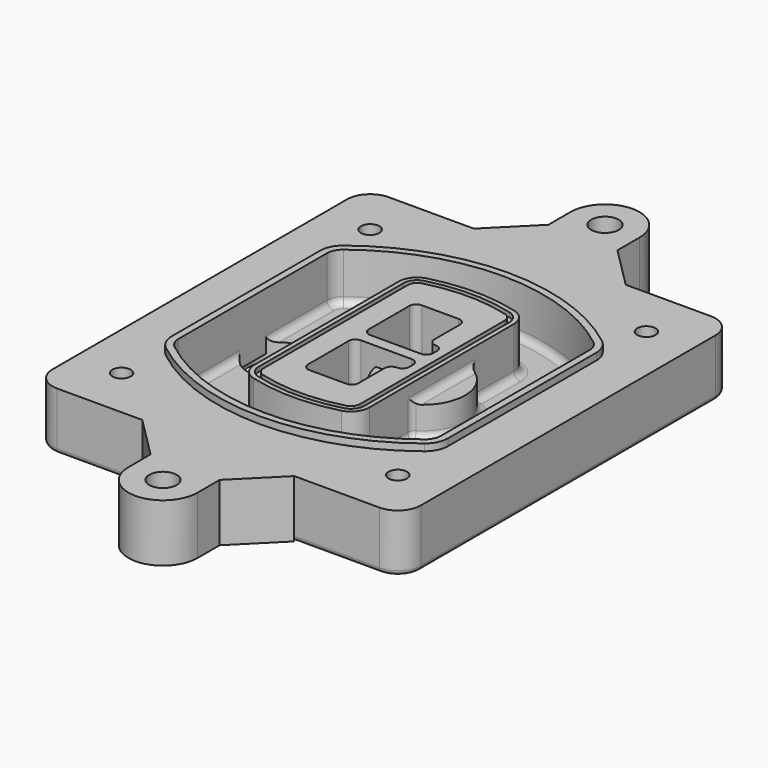
from build123d import *

# Parameters (mm, degrees)
F0_R      = 4
F1_DEPTH  = 25
F2_DEPTH  = 3
F3_DEPTH  = 18
F5_DEPTH  = 21
F6_DEPTH  = 2
F8_DEPTH  = 20
F9_DEPTH  = 16
F10_DEPTH = 25
F7_R      = 6
F7_R_2    = 4
F11_DEPTH = 6
F13_DEPTH = 9
F14_R     = 3
F15_R     = 2
F16_R     = 6
F17_DEPTH = 25


with BuildPart() as f1:
    # F0 (on Top) → F1 (new body)
    with BuildSketch(Plane.XY):
        with BuildLine():
            ThreePointArc((-80, -80), (-77.0710678119, -87.0710678119), (-70, -90))
            Line((-70, -90), (70, -90))
            ThreePointArc((70, -90), (77.0710678119, -87.0710678119), (80, -80))
            Line((80, -80), (80, 80))
            ThreePointArc((80, 80), (77.0710678119, 87.0710678119), (70, 90))
            Line((70, 90), (-70, 90))
            ThreePointArc((-70, 90), (-77.0710678119, 87.0710678119), (-80, 80))
            Line((-80, 80), (-80, -80))
        make_face()
        with Locations((-60, -67.5)):
            Circle(F0_R, mode=Mode.SUBTRACT)
        with Locations((60, -67.5)):
            Circle(F0_R, mode=Mode.SUBTRACT)
        with Locations((-60, 67.5)):
            Circle(F0_R, mode=Mode.SUBTRACT)
        with BuildLine():
            ThreePointArc((-64, 40.2934422872), (-62.5820384798, 46.4328484224), (-58.6153846154, 51.3286200352))
            ThreePointArc((-58.6153846154, 51.3286200352), (0, 71.5), (58.6153846154, 51.3286200352))
            ThreePointArc((58.6153846154, 51.3286200352), (62.5820384798, 46.4328484224), (64, 40.2934422872))
            Line((64, 40.2934422872), (64, -40.2934422872))
            ThreePointArc((64, -40.2934422872), (62.5820384798, -46.4328484224), (58.6153846154, -51.3286200352))
            ThreePointArc((58.6153846154, -51.3286200352), (0, -71.5), (-58.6153846154, -51.3286200352))
            ThreePointArc((-58.6153846154, -51.3286200352), (-62.5820384798, -46.4328484224), (-64, -40.2934422872))
            Line((-64, -40.2934422872), (-64, 40.2934422872))
        make_face(mode=Mode.SUBTRACT)
        with Locations((60, 67.5)):
            Circle(F0_R, mode=Mode.SUBTRACT)
        with BuildLine():
            ThreePointArc((58.6153846154, 51.3286200352), (0, 71.5), (-58.6153846154, 51.3286200352))
            ThreePointArc((-58.6153846154, 51.3286200352), (-62.5820384798, 46.4328484224), (-64, 40.2934422872))
            Line((-64, 40.2934422872), (-64, -40.2934422872))
            ThreePointArc((-64, -40.2934422872), (-62.5820384798, -46.4328484224), (-58.6153846154, -51.3286200352))
            ThreePointArc((-58.6153846154, -51.3286200352), (0, -71.5), (58.6153846154, -51.3286200352))
            ThreePointArc((58.6153846154, -51.3286200352), (62.5820384798, -46.4328484224), (64, -40.2934422872))
            Line((64, -40.2934422872), (64, 40.2934422872))
            ThreePointArc((64, 40.2934422872), (62.5820384798, 46.4328484224), (58.6153846154, 51.3286200352))
        make_face()
        with BuildLine():
            Line((-60, -40.2934422872), (-60, 40.2934422872))
            ThreePointArc((-60, 40.2934422872), (-58.9871703427, 44.6787323838), (-56.1538461538, 48.1757121072))
            ThreePointArc((-56.1538461538, 48.1757121072), (0, 67.5), (56.1538461538, 48.1757121072))
            ThreePointArc((56.1538461538, 48.1757121072), (58.9871703427, 44.6787323838), (60, 40.2934422872))
            Line((60, 40.2934422872), (60, -40.2934422872))
            ThreePointArc((60, -40.2934422872), (58.9871703427, -44.6787323838), (56.1538461538, -48.1757121072))
            ThreePointArc((56.1538461538, -48.1757121072), (0, -67.5), (-56.1538461538, -48.1757121072))
            ThreePointArc((-56.1538461538, -48.1757121072), (-58.9871703427, -44.6787323838), (-60, -40.2934422872))
        make_face(mode=Mode.SUBTRACT)
        with BuildLine():
            ThreePointArc((-56.1538461538, 48.1757121072), (-58.9871703427, 44.6787323838), (-60, 40.2934422872))
            Line((-60, 40.2934422872), (-60, -40.2934422872))
            ThreePointArc((-60, -40.2934422872), (-58.9871703427, -44.6787323838), (-56.1538461538, -48.1757121072))
            ThreePointArc((-56.1538461538, -48.1757121072), (0, -67.5), (56.1538461538, -48.1757121072))
            ThreePointArc((56.1538461538, -48.1757121072), (58.9871703427, -44.6787323838), (60, -40.2934422872))
            Line((60, -40.2934422872), (60, 40.2934422872))
            ThreePointArc((60, 40.2934422872), (58.9871703427, 44.6787323838), (56.1538461538, 48.1757121072))
            ThreePointArc((56.1538461538, 48.1757121072), (0, 67.5), (-56.1538461538, 48.1757121072))
        make_face()
        with BuildLine():
            ThreePointArc((54.3076923077, 45.8110311612), (56.2910192399, 43.3631453548), (57, 40.2934422872))
            Line((57, 40.2934422872), (57, -40.2934422872))
            ThreePointArc((57, -40.2934422872), (56.2910192399, -43.3631453548), (54.3076923077, -45.8110311612))
            ThreePointArc((54.3076923077, -45.8110311612), (0, -64.5), (-54.3076923077, -45.8110311612))
            ThreePointArc((-54.3076923077, -45.8110311612), (-56.2910192399, -43.3631453548), (-57, -40.2934422872))
            Line((-57, -40.2934422872), (-57, 40.2934422872))
            ThreePointArc((-57, 40.2934422872), (-56.2910192399, 43.3631453548), (-54.3076923077, 45.8110311612))
            ThreePointArc((-54.3076923077, 45.8110311612), (0, 64.5), (54.3076923077, 45.8110311612))
        make_face(mode=Mode.SUBTRACT)
        with BuildLine():
            Line((57, -40.2934422872), (57, 40.2934422872))
            ThreePointArc((57, 40.2934422872), (56.2910192399, 43.3631453548), (54.3076923077, 45.8110311612))
            ThreePointArc((54.3076923077, 45.8110311612), (0, 64.5), (-54.3076923077, 45.8110311612))
            ThreePointArc((-54.3076923077, 45.8110311612), (-56.2910192399, 43.3631453548), (-57, 40.2934422872))
            Line((-57, 40.2934422872), (-57, -40.2934422872))
            ThreePointArc((-57, -40.2934422872), (-56.2910192399, -43.3631453548), (-54.3076923077, -45.8110311612))
            ThreePointArc((-54.3076923077, -45.8110311612), (0, -64.5), (54.3076923077, -45.8110311612))
            ThreePointArc((54.3076923077, -45.8110311612), (56.2910192399, -43.3631453548), (57, -40.2934422872))
        make_face()
    extrude(amount=-F1_DEPTH)

    # F0 (on Top) → F2 (join)
    with BuildSketch(Plane.XY):
        with BuildLine():
            ThreePointArc((-56.1538461538, 48.1757121072), (-58.9871703427, 44.6787323838), (-60, 40.2934422872))
            Line((-60, 40.2934422872), (-60, -40.2934422872))
            ThreePointArc((-60, -40.2934422872), (-58.9871703427, -44.6787323838), (-56.1538461538, -48.1757121072))
            ThreePointArc((-56.1538461538, -48.1757121072), (0, -67.5), (56.1538461538, -48.1757121072))
            ThreePointArc((56.1538461538, -48.1757121072), (58.9871703427, -44.6787323838), (60, -40.2934422872))
            Line((60, -40.2934422872), (60, 40.2934422872))
            ThreePointArc((60, 40.2934422872), (58.9871703427, 44.6787323838), (56.1538461538, 48.1757121072))
            ThreePointArc((56.1538461538, 48.1757121072), (0, 67.5), (-56.1538461538, 48.1757121072))
        make_face()
        with BuildLine():
            ThreePointArc((54.3076923077, 45.8110311612), (56.2910192399, 43.3631453548), (57, 40.2934422872))
            Line((57, 40.2934422872), (57, -40.2934422872))
            ThreePointArc((57, -40.2934422872), (56.2910192399, -43.3631453548), (54.3076923077, -45.8110311612))
            ThreePointArc((54.3076923077, -45.8110311612), (0, -64.5), (-54.3076923077, -45.8110311612))
            ThreePointArc((-54.3076923077, -45.8110311612), (-56.2910192399, -43.3631453548), (-57, -40.2934422872))
            Line((-57, -40.2934422872), (-57, 40.2934422872))
            ThreePointArc((-57, 40.2934422872), (-56.2910192399, 43.3631453548), (-54.3076923077, 45.8110311612))
            ThreePointArc((-54.3076923077, 45.8110311612), (0, 64.5), (54.3076923077, 45.8110311612))
        make_face(mode=Mode.SUBTRACT)
    extrude(amount=F2_DEPTH)

    # F0 (on Top) → F3 (cut)
    with BuildSketch(Plane.XY):
        with BuildLine():
            Line((57, -40.2934422872), (57, 40.2934422872))
            ThreePointArc((57, 40.2934422872), (56.2910192399, 43.3631453548), (54.3076923077, 45.8110311612))
            ThreePointArc((54.3076923077, 45.8110311612), (0, 64.5), (-54.3076923077, 45.8110311612))
            ThreePointArc((-54.3076923077, 45.8110311612), (-56.2910192399, 43.3631453548), (-57, 40.2934422872))
            Line((-57, 40.2934422872), (-57, -40.2934422872))
            ThreePointArc((-57, -40.2934422872), (-56.2910192399, -43.3631453548), (-54.3076923077, -45.8110311612))
            ThreePointArc((-54.3076923077, -45.8110311612), (0, -64.5), (54.3076923077, -45.8110311612))
            ThreePointArc((54.3076923077, -45.8110311612), (56.2910192399, -43.3631453548), (57, -40.2934422872))
        make_face()
    extrude(amount=-F3_DEPTH, mode=Mode.SUBTRACT)

    # F4 (on face) → F5 (join, through all)
    with BuildSketch(Plane.XY.offset(3)):
        with BuildLine():
            ThreePointArc((-25, -39.2465276821), (-23.3511545998, -44.1109737193), (-19.0842911877, -46.9702398883))
            ThreePointArc((-19.0842911877, -46.9702398883), (0, -49.5), (19.0842911877, -46.9702398883))
            ThreePointArc((19.0842911877, -46.9702398883), (23.3511545998, -44.1109737193), (25, -39.2465276821))
            Line((25, -39.2465276821), (25, 39.2465276821))
            ThreePointArc((25, 39.2465276821), (23.3511545998, 44.1109737193), (19.0842911877, 46.9702398883))
            ThreePointArc((19.0842911877, 46.9702398883), (0, 49.5), (-19.0842911877, 46.9702398883))
            ThreePointArc((-19.0842911877, 46.9702398883), (-23.3511545998, 44.1109737193), (-25, 39.2465276821))
            Line((-25, 39.2465276821), (-25, -39.2465276821))
        make_face()
        with BuildLine():
            ThreePointArc((18.5632183908, 45.0393118368), (21.7633659499, 42.89486221), (23, 39.2465276821))
            Line((23, 39.2465276821), (23, -39.2465276821))
            ThreePointArc((23, -39.2465276821), (21.7633659499, -42.89486221), (18.5632183908, -45.0393118368))
            ThreePointArc((18.5632183908, -45.0393118368), (0, -47.5), (-18.5632183908, -45.0393118368))
            ThreePointArc((-18.5632183908, -45.0393118368), (-21.7633659499, -42.89486221), (-23, -39.2465276821))
            Line((-23, -39.2465276821), (-23, 39.2465276821))
            ThreePointArc((-23, 39.2465276821), (-21.7633659499, 42.89486221), (-18.5632183908, 45.0393118368))
            ThreePointArc((-18.5632183908, 45.0393118368), (0, 47.5), (18.5632183908, 45.0393118368))
        make_face(mode=Mode.SUBTRACT)
        with BuildLine():
            Line((23, -39.2465276821), (23, 39.2465276821))
            ThreePointArc((23, 39.2465276821), (21.7633659499, 42.89486221), (18.5632183908, 45.0393118368))
            ThreePointArc((18.5632183908, 45.0393118368), (0, 47.5), (-18.5632183908, 45.0393118368))
            ThreePointArc((-18.5632183908, 45.0393118368), (-21.7633659499, 42.89486221), (-23, 39.2465276821))
            Line((-23, 39.2465276821), (-23, -39.2465276821))
            ThreePointArc((-23, -39.2465276821), (-21.7633659499, -42.89486221), (-18.5632183908, -45.0393118368))
            ThreePointArc((-18.5632183908, -45.0393118368), (0, -47.5), (18.5632183908, -45.0393118368))
            ThreePointArc((18.5632183908, -45.0393118368), (21.7633659499, -42.89486221), (23, -39.2465276821))
        make_face()
        with BuildLine():
            ThreePointArc((18.0421455939, 43.1083837852), (20.1755772999, 41.6787507007), (21, 39.2465276821))
            Line((21, 39.2465276821), (21, -39.2465276821))
            ThreePointArc((21, -39.2465276821), (20.1755772999, -41.6787507007), (18.0421455939, -43.1083837852))
            ThreePointArc((18.0421455939, -43.1083837852), (0, -45.5), (-18.0421455939, -43.1083837852))
            ThreePointArc((-18.0421455939, -43.1083837852), (-20.1755772999, -41.6787507007), (-21, -39.2465276821))
            Line((-21, -39.2465276821), (-21, 39.2465276821))
            ThreePointArc((-21, 39.2465276821), (-20.1755772999, 41.6787507007), (-18.0421455939, 43.1083837852))
            ThreePointArc((-18.0421455939, 43.1083837852), (0, 45.5), (18.0421455939, 43.1083837852))
        make_face(mode=Mode.SUBTRACT)
        with BuildLine():
            Line((21, -39.2465276821), (21, 39.2465276821))
            ThreePointArc((21, 39.2465276821), (20.1755772999, 41.6787507007), (18.0421455939, 43.1083837852))
            ThreePointArc((18.0421455939, 43.1083837852), (0, 45.5), (-18.0421455939, 43.1083837852))
            ThreePointArc((-18.0421455939, 43.1083837852), (-20.1755772999, 41.6787507007), (-21, 39.2465276821))
            Line((-21, 39.2465276821), (-21, -39.2465276821))
            ThreePointArc((-21, -39.2465276821), (-20.1755772999, -41.6787507007), (-18.0421455939, -43.1083837852))
            ThreePointArc((-18.0421455939, -43.1083837852), (0, -45.5), (18.0421455939, -43.1083837852))
            ThreePointArc((18.0421455939, -43.1083837852), (20.1755772999, -41.6787507007), (21, -39.2465276821))
        make_face()
        with BuildLine():
            Line((-8, -2.5), (14, -2.5))
            ThreePointArc((14, -2.5), (16.1213203436, -3.3786796564), (17, -5.5))
            Line((17, -5.5), (17, -7.5))
            ThreePointArc((17, -7.5), (16.1213203436, -9.6213203436), (14, -10.5))
            ThreePointArc((14, -10.5), (11.8786796564, -11.3786796564), (11, -13.5))
            Line((11, -13.5), (11, -27.5))
            ThreePointArc((11, -27.5), (10.1213203436, -29.6213203436), (8, -30.5))
            Line((8, -30.5), (-8, -30.5))
            ThreePointArc((-8, -30.5), (-10.1213203436, -29.6213203436), (-11, -27.5))
            Line((-11, -27.5), (-11, -5.5))
            ThreePointArc((-11, -5.5), (-10.1213203436, -3.3786796564), (-8, -2.5))
        make_face(mode=Mode.SUBTRACT)
        with BuildLine():
            ThreePointArc((-8, 2.5), (-10.1213203436, 3.3786796564), (-11, 5.5))
            Line((-11, 5.5), (-11, 27.5))
            ThreePointArc((-11, 27.5), (-10.1213203436, 29.6213203436), (-8, 30.5))
            Line((-8, 30.5), (8, 30.5))
            ThreePointArc((8, 30.5), (10.1213203436, 29.6213203436), (11, 27.5))
            Line((11, 27.5), (11, 13.5))
            ThreePointArc((11, 13.5), (11.8786796564, 11.3786796564), (14, 10.5))
            ThreePointArc((14, 10.5), (16.1213203436, 9.6213203436), (17, 7.5))
            Line((17, 7.5), (17, 5.5))
            ThreePointArc((17, 5.5), (16.1213203436, 3.3786796564), (14, 2.5))
            Line((14, 2.5), (-8, 2.5))
        make_face(mode=Mode.SUBTRACT)
    extrude(amount=-F5_DEPTH)

    # F4 (on face) → F6 (cut)
    with BuildSketch(Plane.XY.offset(3)):
        with BuildLine():
            Line((23, -39.2465276821), (23, 39.2465276821))
            ThreePointArc((23, 39.2465276821), (21.7633659499, 42.89486221), (18.5632183908, 45.0393118368))
            ThreePointArc((18.5632183908, 45.0393118368), (0, 47.5), (-18.5632183908, 45.0393118368))
            ThreePointArc((-18.5632183908, 45.0393118368), (-21.7633659499, 42.89486221), (-23, 39.2465276821))
            Line((-23, 39.2465276821), (-23, -39.2465276821))
            ThreePointArc((-23, -39.2465276821), (-21.7633659499, -42.89486221), (-18.5632183908, -45.0393118368))
            ThreePointArc((-18.5632183908, -45.0393118368), (0, -47.5), (18.5632183908, -45.0393118368))
            ThreePointArc((18.5632183908, -45.0393118368), (21.7633659499, -42.89486221), (23, -39.2465276821))
        make_face()
        with BuildLine():
            ThreePointArc((18.0421455939, 43.1083837852), (20.1755772999, 41.6787507007), (21, 39.2465276821))
            Line((21, 39.2465276821), (21, -39.2465276821))
            ThreePointArc((21, -39.2465276821), (20.1755772999, -41.6787507007), (18.0421455939, -43.1083837852))
            ThreePointArc((18.0421455939, -43.1083837852), (0, -45.5), (-18.0421455939, -43.1083837852))
            ThreePointArc((-18.0421455939, -43.1083837852), (-20.1755772999, -41.6787507007), (-21, -39.2465276821))
            Line((-21, -39.2465276821), (-21, 39.2465276821))
            ThreePointArc((-21, 39.2465276821), (-20.1755772999, 41.6787507007), (-18.0421455939, 43.1083837852))
            ThreePointArc((-18.0421455939, 43.1083837852), (0, 45.5), (18.0421455939, 43.1083837852))
        make_face(mode=Mode.SUBTRACT)
    extrude(amount=-F6_DEPTH, mode=Mode.SUBTRACT)

    # F7 (on face) → F8 (join)
    with BuildSketch(Plane(origin=(0, 0, -25), x_dir=(1, 0, 0), z_dir=(0, 0, -1))):
        with BuildLine():
            ThreePointArc((3.28842436, 0), (16.7567035675, 13.4682792075), (30.224982775, 0))
            Line((30.224982775, 0), (35.224982775, 0))
            ThreePointArc((35.224982775, 0), (16.7567035675, 18.4682792075), (-1.71157564, 0))
            Line((-1.71157564, 0), (3.28842436, 0))
        make_face()
        with BuildLine():
            Line((3.28842436, 0), (30.224982775, 0))
            ThreePointArc((30.224982775, 0), (16.7567035675, 13.4682792075), (3.28842436, 0))
        make_face()
        with BuildLine():
            ThreePointArc((3.28842436, 0), (16.7567035675, -13.4682792075), (30.224982775, 0))
            Line((30.224982775, 0), (3.28842436, 0))
        make_face()
        with BuildLine():
            Line((35.224982775, 0), (30.224982775, 0))
            ThreePointArc((30.224982775, 0), (16.7567035675, -13.4682792075), (3.28842436, 0))
            Line((3.28842436, 0), (-1.71157564, 0))
            ThreePointArc((-1.71157564, 0), (16.7567035675, -18.4682792075), (35.224982775, 0))
        make_face()
    extrude(amount=-F8_DEPTH)

    # F7 (on face) → F9 (cut)
    with BuildSketch(Plane(origin=(0, 0, -25), x_dir=(1, 0, 0), z_dir=(0, 0, -1))):
        with BuildLine():
            Line((3.28842436, 0), (30.224982775, 0))
            ThreePointArc((30.224982775, 0), (16.7567035675, 13.4682792075), (3.28842436, 0))
        make_face()
        with BuildLine():
            ThreePointArc((3.28842436, 0), (16.7567035675, -13.4682792075), (30.224982775, 0))
            Line((30.224982775, 0), (3.28842436, 0))
        make_face()
    extrude(amount=-F9_DEPTH, mode=Mode.SUBTRACT)

    # F7 (on face) → F10 (cut)
    with BuildSketch(Plane(origin=(0, 0, -25), x_dir=(1, 0, 0), z_dir=(0, 0, -1))):
        with BuildLine():
            Line((-59.0318229325, 0), (-32.0952645175, 0))
            ThreePointArc((-32.0952645175, 0), (-45.563543725, 13.4682792075), (-59.0318229325, 0))
        make_face()
        with BuildLine():
            ThreePointArc((-59.0318229325, 0), (-45.563543725, -13.4682792075), (-32.0952645175, 0))
            Line((-32.0952645175, 0), (-59.0318229325, 0))
        make_face()
    extrude(amount=-F10_DEPTH, mode=Mode.SUBTRACT)

    # F7 (on face) → F11 (cut)
    with BuildSketch(Plane(origin=(0, 0, -25), x_dir=(1, 0, 0), z_dir=(0, 0, -1))):
        with Locations((60, -67.5)):
            Circle(F7_R)
        with Locations((60, -67.5)):
            Circle(F7_R_2, mode=Mode.SUBTRACT)
        with Locations((60, -67.5)):
            Circle(F7_R)
        with Locations((60, -67.5)):
            Circle(F7_R_2, mode=Mode.SUBTRACT)
        with Locations((-60, -67.5)):
            Circle(F7_R)
        with Locations((-60, -67.5)):
            Circle(F7_R_2, mode=Mode.SUBTRACT)
        with Locations((-60, -67.5)):
            Circle(F7_R)
        with Locations((-60, -67.5)):
            Circle(F7_R_2, mode=Mode.SUBTRACT)
        with Locations((-60, 67.5)):
            Circle(F7_R)
        with Locations((-60, 67.5)):
            Circle(F7_R_2, mode=Mode.SUBTRACT)
        with Locations((-60, 67.5)):
            Circle(F7_R)
        with Locations((-60, 67.5)):
            Circle(F7_R_2, mode=Mode.SUBTRACT)
        with Locations((60, 67.5)):
            Circle(F7_R)
        with Locations((60, 67.5)):
            Circle(F7_R_2, mode=Mode.SUBTRACT)
        with Locations((60, 67.5)):
            Circle(F7_R)
        with Locations((60, 67.5)):
            Circle(F7_R_2, mode=Mode.SUBTRACT)
    extrude(amount=-F11_DEPTH, mode=Mode.SUBTRACT)

    # F12 (on face) → F13 (cut, through all)
    with BuildSketch(Plane(origin=(0, 0, -9), x_dir=(1, 0, 0), z_dir=(0, 0, -1))):
        with BuildLine():
            Line((11, 13.5), (11, 17.5481537753))
            ThreePointArc((11, 17.5481537753), (2.5696536419, 11.8239143813), (-1.5415842455, 2.5))
            Line((-1.5415842455, 2.5), (3.5224848595, 2.5))
            ThreePointArc((3.5224848595, 2.5), (6.1857188154, 8.3455872281), (11.2536447004, 12.2927168648))
            ThreePointArc((11.2536447004, 12.2927168648), (11.0640958889, 12.8831798879), (11, 13.5))
        make_face()
        with BuildLine():
            ThreePointArc((11.2536447004, -12.2927168648), (6.1857188154, -8.3455872281), (3.5224848595, -2.5))
            Line((3.5224848595, -2.5), (-1.5415842455, -2.5))
            ThreePointArc((-1.5415842455, -2.5), (2.5696536419, -11.8239143813), (11, -17.5481537753))
            Line((11, -17.5481537753), (11, -13.5))
            ThreePointArc((11, -13.5), (11.0640958889, -12.8831798879), (11.2536447004, -12.2927168648))
        make_face()
        with BuildLine():
            ThreePointArc((11.2536447004, 12.2927168648), (6.1857188154, 8.3455872281), (3.5224848595, 2.5))
            Line((3.5224848595, 2.5), (14, 2.5))
            ThreePointArc((14, 2.5), (16.1213203436, 3.3786796564), (17, 5.5))
            Line((17, 5.5), (17, 7.5))
            ThreePointArc((17, 7.5), (16.1213203436, 9.6213203436), (14, 10.5))
            ThreePointArc((14, 10.5), (12.3601599782, 10.9878446101), (11.2536447004, 12.2927168648))
        make_face()
        with BuildLine():
            Line((14, -2.5), (3.5224848595, -2.5))
            ThreePointArc((3.5224848595, -2.5), (6.1857188154, -8.3455872281), (11.2536447004, -12.2927168648))
            ThreePointArc((11.2536447004, -12.2927168648), (12.3601599782, -10.9878446101), (14, -10.5))
            ThreePointArc((14, -10.5), (16.1213203436, -9.6213203436), (17, -7.5))
            Line((17, -7.5), (17, -5.5))
            ThreePointArc((17, -5.5), (16.1213203436, -3.3786796564), (14, -2.5))
        make_face()
    extrude(amount=F13_DEPTH, mode=Mode.SUBTRACT)

    # F14
    f14_edges = [f1.edges().sort_by_distance(p)[0] for p in [
        (-57, -23.703476, -18),
        (-57, 23.703476, -18),
        (25, 0, -5),
        (25, 16.526506, -11.5),
        (25, -16.526506, -11.5),
        (25, -27.886517, -18),
        (35.224983, 0, -18),
    ]]
    fillet(f14_edges, radius=F14_R)

    # F15
    f15_edges = [f1.edges().sort_by_distance(p)[0] for p in [
        (0, -90, -25),
    ]]
    fillet(f15_edges, radius=F15_R)

    # F16 (on face) + F2_face (on face) → F17 (join)
    with BuildSketch(Plane.XY):
        with BuildLine():
            Line((33, -90), (-33, -90))
            Line((-33, -90), (-15, -108))
            Line((-15, -108), (-15, -120))
            ThreePointArc((-15, -120), (0, -135), (15, -120))
            Line((15, -120), (15, -108))
            Line((15, -108), (33, -90))
        make_face()
        with Locations((0, -120)):
            Circle(F16_R, mode=Mode.SUBTRACT)
        with BuildLine():
            Line((-15, 108), (-33, 90))
            Line((-33, 90), (33, 90))
            Line((33, 90), (15, 108))
            Line((15, 108), (15, 120))
            ThreePointArc((15, 120), (0, 135), (-15, 120))
            Line((-15, 120), (-15, 108))
        make_face()
        with Locations((0, 120)):
            Circle(F16_R, mode=Mode.SUBTRACT)
    with BuildSketch(Plane.XY.offset(3)):
        with BuildLine():
            ThreePointArc((56.1538461538, 48.1757121072), (0, 67.5), (-56.1538461538, 48.1757121072))
            ThreePointArc((-56.1538461538, 48.1757121072), (-58.9871703427, 44.6787323838), (-60, 40.2934422872))
            Line((-60, 40.2934422872), (-60, -40.2934422872))
            ThreePointArc((-60, -40.2934422872), (-58.9871703427, -44.6787323838), (-56.1538461538, -48.1757121072))
            ThreePointArc((-56.1538461538, -48.1757121072), (0, -67.5), (56.1538461538, -48.1757121072))
            ThreePointArc((56.1538461538, -48.1757121072), (58.9871703427, -44.6787323838), (60, -40.2934422872))
            Line((60, -40.2934422872), (60, 40.2934422872))
            ThreePointArc((60, 40.2934422872), (58.9871703427, 44.6787323838), (56.1538461538, 48.1757121072))
        make_face()
        with BuildLine():
            ThreePointArc((54.3076923077, 45.8110311612), (56.2910192399, 43.3631453548), (57, 40.2934422872))
            Line((57, 40.2934422872), (57, -40.2934422872))
            ThreePointArc((57, -40.2934422872), (56.2910192399, -43.3631453548), (54.3076923077, -45.8110311612))
            ThreePointArc((54.3076923077, -45.8110311612), (0, -64.5), (-54.3076923077, -45.8110311612))
            ThreePointArc((-54.3076923077, -45.8110311612), (-56.2910192399, -43.3631453548), (-57, -40.2934422872))
            Line((-57, -40.2934422872), (-57, 40.2934422872))
            ThreePointArc((-57, 40.2934422872), (-56.2910192399, 43.3631453548), (-54.3076923077, 45.8110311612))
            ThreePointArc((-54.3076923077, 45.8110311612), (0, 64.5), (54.3076923077, 45.8110311612))
        make_face(mode=Mode.SUBTRACT)
    extrude(amount=-F17_DEPTH)


solid = f1.part
